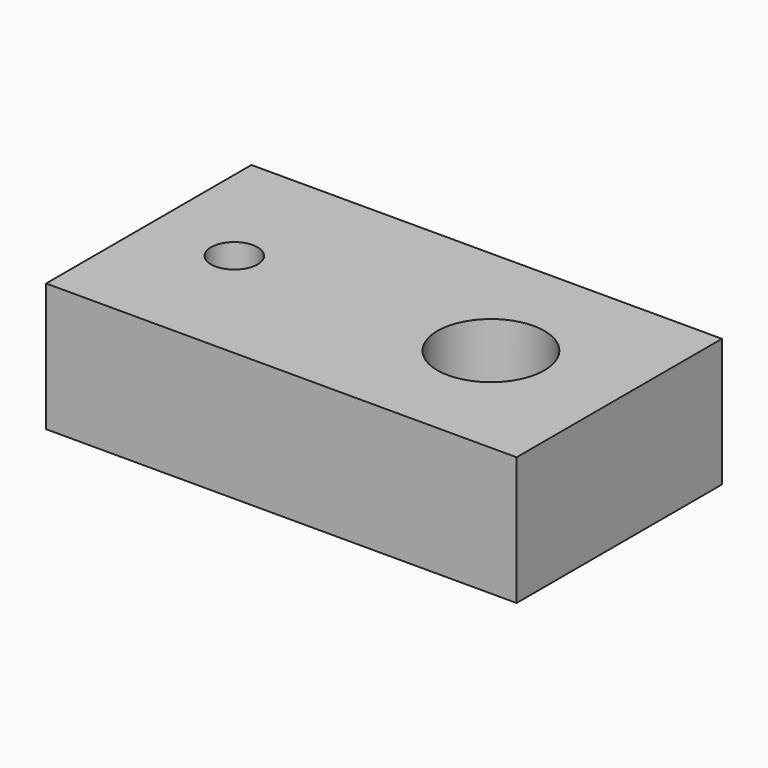
from build123d import *

# Parameters (mm, degrees)
F0_W     = 19.05
F0_H     = 9.525
F1_DEPTH = 17.4625
F3_D     = 7.9375
F5_D     = 3.4544


with BuildPart() as f1:
    # F0 (on Right) → F1 (new body, symmetric)
    with BuildSketch(Plane.YZ):
        Rectangle(F0_W, F0_H)
    extrude(amount=F1_DEPTH, both=True)

    # F3 (through all)
    with Locations(Plane.XY.offset(4.7625)):
        with Locations((7.9375, 0)):
            Hole(F3_D / 2)

    # F5 (through all)
    with Locations(Plane.XY.offset(4.7625)):
        with Locations((-11.1125, 0)):
            Hole(F5_D / 2)


solid = f1.part
